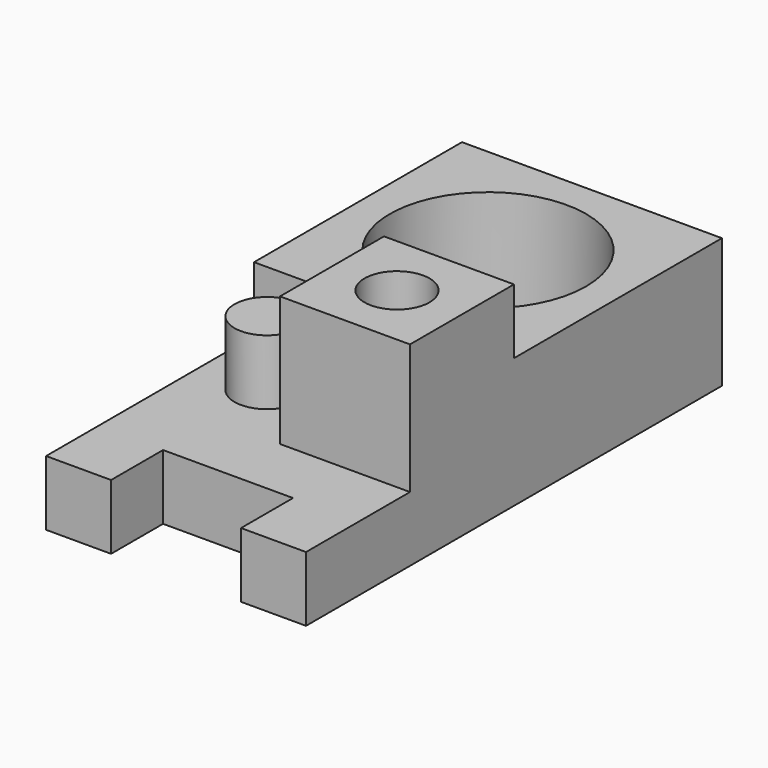
from build123d import *

# Parameters (mm, degrees)
F0_R     = 7.55
F1_DEPTH = 10
F0_W     = 10
F0_H     = 10
F0_R_2   = 2.5
F2_DEPTH = 5
F3_DEPTH = 15
F4_DEPTH = 10


with BuildPart() as f1:
    # F0 (on Top) → F1 (new body)
    with BuildSketch(Plane.XY):
        Polygon((10, -10), (10, 10), (-10, 10), (-10, -10), (0, -10), align=None)
        Circle(F0_R, mode=Mode.SUBTRACT)
    extrude(amount=F1_DEPTH)

    # F0 (on Top) → F2 (join)
    with BuildSketch(Plane.XY):
        with Locations((-5, -15)):
            Rectangle(F0_W, F0_H)
        with Locations((-5, -15)):
            Circle(F0_R_2, mode=Mode.SUBTRACT)
        Polygon((10, -30), (10, -20), (0, -20), (-10, -20), (-10, -30), (-5, -30), (-5, -25), (5, -25), (5, -30), align=None)
        with Locations((-5, -15)):
            Circle(F0_R_2)
    extrude(amount=F2_DEPTH)

    # F0 (on Top) → F3 (join)
    with BuildSketch(Plane.XY):
        with Locations((5, -15)):
            Rectangle(F0_W, F0_H)
        with Locations((5, -15)):
            Circle(F0_R_2, mode=Mode.SUBTRACT)
    extrude(amount=F3_DEPTH)

    # F0 (on Top) → F4 (join)
    with BuildSketch(Plane.XY):
        with Locations((-5, -15)):
            Circle(F0_R_2)
    extrude(amount=F4_DEPTH)


solid = f1.part
